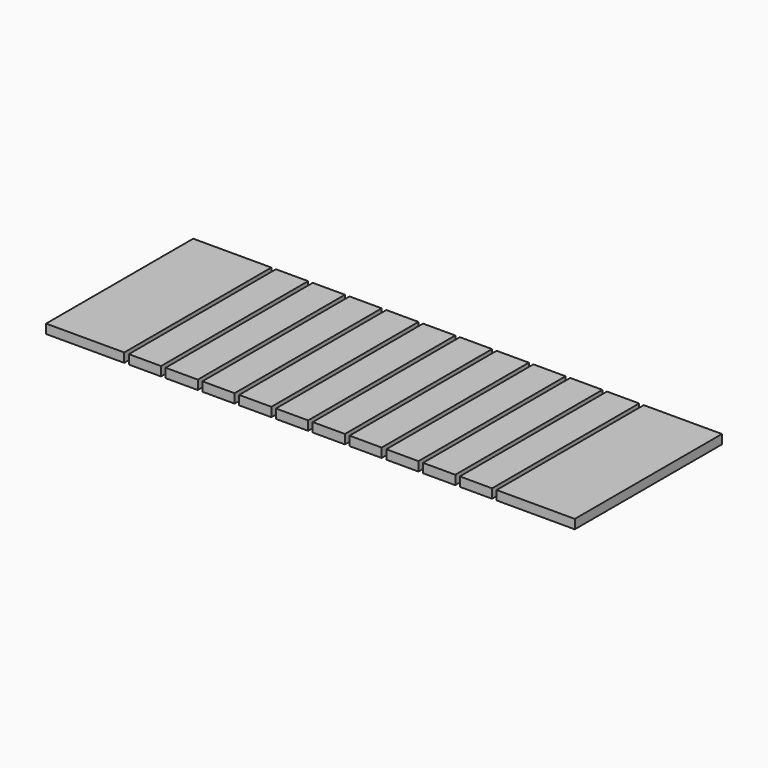
from build123d import *

# Parameters (mm, degrees)
F0_W     = 53.975
F0_H     = 12.533822
F0_H_2   = 114.466178
F0_W_2   = 22.225
F0_H_3   = 127
F1_DEPTH = 6.35


with BuildPart() as f1:
    # F0 (on Top) → F1 (new body)
    with BuildSketch(Plane.XY):
        with Locations((-131.7625, 64.408433)):
            Rectangle(F0_W, F0_H)
        with Locations((-131.7625, 0.908433)):
            Rectangle(F0_W, F0_H_2)
        with Locations((-90.4875, 7.175344)):
            Rectangle(F0_W_2, F0_H_3)
        with Locations((-65.0875, 7.175344)):
            Rectangle(F0_W_2, F0_H_3)
        with Locations((-39.6875, 7.175344)):
            Rectangle(F0_W_2, F0_H_3)
        with Locations((-14.2875, 7.175344)):
            Rectangle(F0_W_2, F0_H_3)
        with Locations((11.1125, 7.175344)):
            Rectangle(F0_W_2, F0_H_3)
        with Locations((36.5125, 7.175344)):
            Rectangle(F0_W_2, F0_H_3)
        with Locations((61.9125, 7.175344)):
            Rectangle(F0_W_2, F0_H_3)
        with Locations((87.3125, 7.175344)):
            Rectangle(F0_W_2, F0_H_3)
        with Locations((112.7125, 7.175344)):
            Rectangle(F0_W_2, F0_H_3)
        with Locations((138.1125, 7.175344)):
            Rectangle(F0_W_2, F0_H_3)
        with Locations((179.3875, 7.175344)):
            Rectangle(F0_W, F0_H_3)
    extrude(amount=F1_DEPTH)


solid = f1.part
